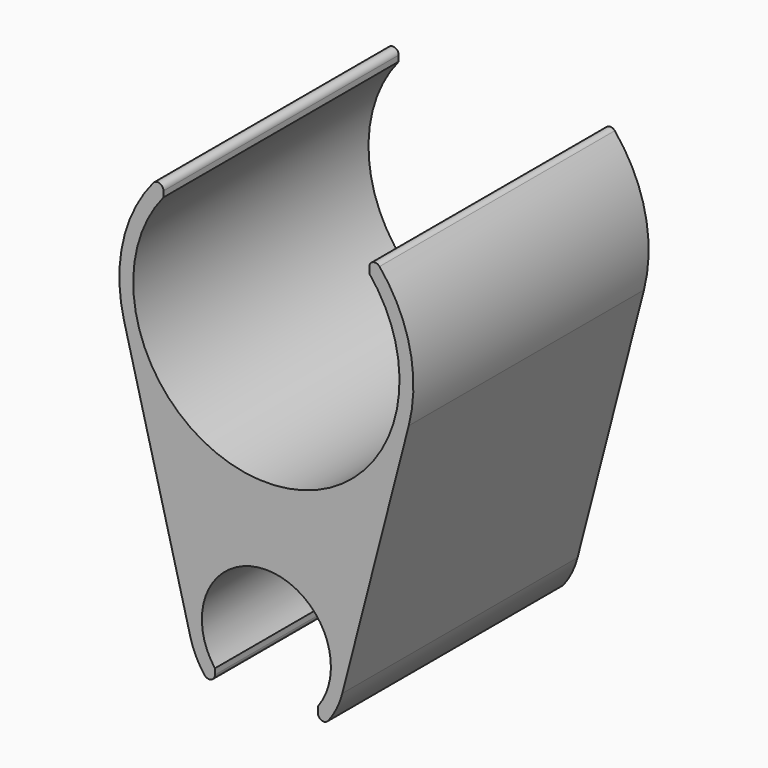
from build123d import *

# Parameters (mm, degrees)
F1_DEPTH = 50.8
F2_R     = 23
F2_R_2   = 11.1466666667
F3_DEPTH = 50.801
F5_DEPTH = 50.801
F6_R     = 1


with BuildPart() as f1:
    # F0 (on Front) → F1 (new body)
    with BuildSketch(Plane.XZ):
        with BuildLine():
            ThreePointArc((24.5934442484, -6.35), (0, 25.4), (-24.5934442484, -6.35))
            Line((-24.5934442484, -6.35), (-13.1165035992, -50.8))
            ThreePointArc((-13.1165035992, -50.8), (0, -60.96), (13.1165035992, -50.8))
            Line((13.1165035992, -50.8), (24.5934442484, -6.35))
        make_face()
    extrude(amount=F1_DEPTH)

    # F2 (on face) → F3 (cut, through all)
    with BuildSketch(Plane.XZ.offset(50.8)):
        Circle(F2_R)
        with Locations((0, -47.4133333333)):
            Circle(F2_R_2)
    extrude(amount=-F3_DEPTH, mode=Mode.SUBTRACT)

    # F4 (on face) → F5 (cut, through all)
    with BuildSketch(Plane.XZ.offset(50.8)):
        with BuildLine():
            ThreePointArc((-17.78, 14.5901199447), (0, 23), (17.78, 14.5901199447))
            Line((17.78, 14.5901199447), (17.78, 18.1392282085))
            ThreePointArc((17.78, 18.1392282085), (0, 25.4), (-17.78, 18.1392282085))
            Line((-17.78, 18.1392282085), (-17.78, 14.5901199447))
        make_face()
        with BuildLine():
            ThreePointArc((-8.89, -57.6348830093), (0, -60.96), (8.89, -57.6348830093))
            Line((8.89, -57.6348830093), (8.89, -54.1376234652))
            ThreePointArc((8.89, -54.1376234652), (0, -58.56), (-8.89, -54.1376234652))
            Line((-8.89, -54.1376234652), (-8.89, -57.6348830093))
        make_face()
    extrude(amount=-F5_DEPTH, mode=Mode.SUBTRACT)

    # F6
    f6_edges = [f1.edges().sort_by_distance(p)[0] for p in [
        (17.78, -25.4, 18.139228),
        (-17.78, -25.4, 18.139228),
        (8.89, -25.4, -57.634883),
        (-8.89, -25.4, -57.634883),
    ]]
    fillet(f6_edges, radius=F6_R)


solid = f1.part
